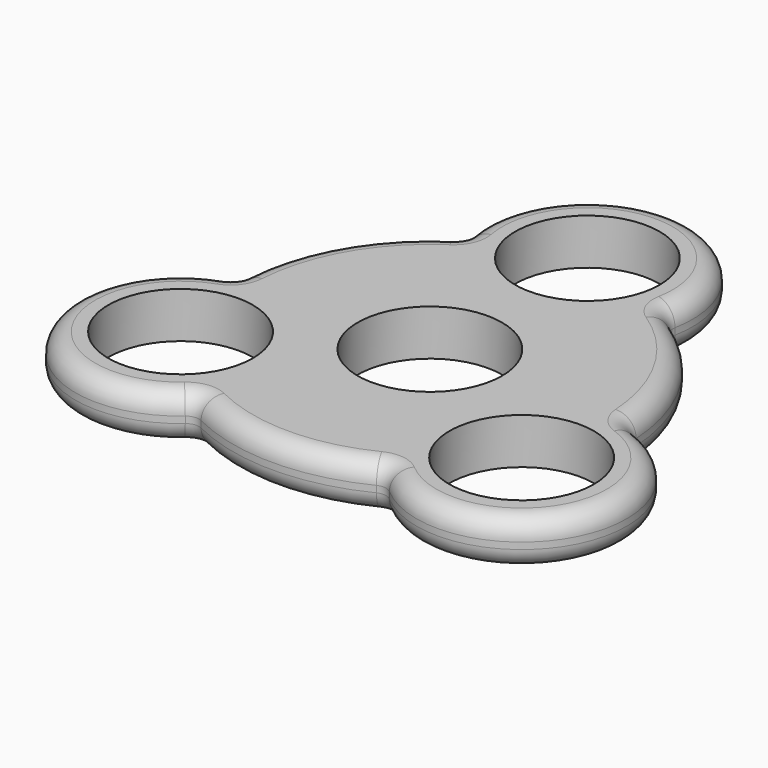
from build123d import *

# Parameters (mm, degrees)
F0_R     = 11
F1_DEPTH = 7
F2_R     = 3


with BuildPart() as f1:
    # F0 (on Top) → F1 (new body)
    with BuildSketch(Plane.XY):
        with BuildLine():
            ThreePointArc((-15.723258, 27.037037), (-15.846096, 25.888889), (-16.583123, 25))
            ThreePointArc((-16.583123, 25), (-25.980762, 15), (-29.942197, 1.861406))
            ThreePointArc((-29.942197, 1.861406), (-30.343484, 0.778676), (-31.27639, 0.098221))
            ThreePointArc((-31.27639, 0.098221), (-39.837168, -22.999999), (-15.553133, -27.135259))
            ThreePointArc((-15.553133, -27.135259), (-14.497388, -26.667566), (-13.359074, -26.861406))
            ThreePointArc((-13.359074, -26.861406), (-1e-06, -30), (13.359073, -26.861407))
            ThreePointArc((13.359073, -26.861407), (14.497387, -26.667566), (15.553132, -27.13526))
            ThreePointArc((15.553132, -27.13526), (39.837169, -23), (31.27639, 0.098223))
            ThreePointArc((31.27639, 0.098223), (30.343484, 0.778677), (29.942197, 1.861407))
            ThreePointArc((29.942197, 1.861407), (25.980762, 15), (16.583123, 25))
            ThreePointArc((16.583123, 25), (15.846096, 25.888889), (15.723258, 27.037037))
            ThreePointArc((15.723258, 27.037037), (0, 45.999999), (-15.723258, 27.037037))
        make_face()
        with Locations((-25.980762, -15)):
            Circle(F0_R, mode=Mode.SUBTRACT)
        Circle(F0_R, mode=Mode.SUBTRACT)
        with Locations((25.980762, -15)):
            Circle(F0_R, mode=Mode.SUBTRACT)
        with Locations((0, 30)):
            Circle(F0_R, mode=Mode.SUBTRACT)
    extrude(amount=F1_DEPTH)

    # F2
    f2_edges = [f1.edges().sort_by_distance(p)[0] for p in [
        (-1e-06, -30, 7),
        (-1e-06, -30, 0),
    ]]
    fillet(f2_edges, radius=F2_R)


solid = f1.part
